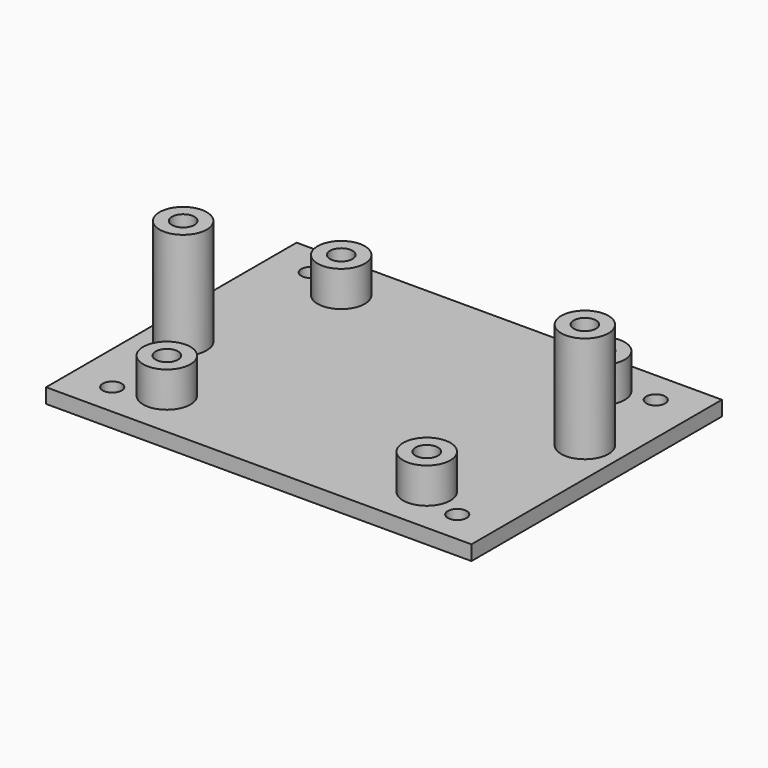
from build123d import *

# Parameters (mm, degrees)
SKETCH_W      = 72
SKETCH_H      = 53
PAD_DEPTH     = 2.5
SKETCH001_R   = 4
PAD001_DEPTH  = 6
SKETCH002_R   = 1.9
HOLE_DEPTH    = 6
SKETCH003_R   = 1.6
HOLE001_DEPTH = 2.501
SKETCH004_R   = 4
PAD002_DEPTH  = 18
SKETCH005_R   = 1.9
HOLE002_DEPTH = 6


with BuildPart() as part:
    # Sketch → Pad (new body)
    with BuildSketch(Plane.XY):
        Rectangle(SKETCH_W, SKETCH_H)
    extrude(amount=PAD_DEPTH)

    # Sketch001 (on Face6 of Pad) → Pad001 (join)
    with BuildSketch(Plane.XY.offset(2.5)):
        with Locations((-22, 18.45)):
            Circle(SKETCH001_R)
        with Locations((22, 18.45)):
            Circle(SKETCH001_R)
        with Locations((-22, -18.45)):
            Circle(SKETCH001_R)
        with Locations((22, -18.45)):
            Circle(SKETCH001_R)
    extrude(amount=PAD001_DEPTH)

    # Sketch002 (on Face14 of Pad001) → Hole (cut)
    with BuildSketch(Plane.XY.offset(8.5)):
        with Locations((-22, 18.45)):
            Circle(SKETCH002_R)
        with Locations((22, 18.45)):
            Circle(SKETCH002_R)
        with Locations((-22, -18.45)):
            Circle(SKETCH002_R)
        with Locations((22, -18.45)):
            Circle(SKETCH002_R)
    extrude(amount=-HOLE_DEPTH, mode=Mode.SUBTRACT)

    # Sketch003 (on Face5 of Hole) → Hole001 (cut, through all)
    with BuildSketch(Plane.XY.offset(2.5)):
        with Locations((-29.2, 21)):
            Circle(SKETCH003_R)
        with Locations((-29.2, -21)):
            Circle(SKETCH003_R)
        with Locations((29.2, 21)):
            Circle(SKETCH003_R)
        with Locations((29.2, -21)):
            Circle(SKETCH003_R)
    extrude(amount=-HOLE001_DEPTH, mode=Mode.SUBTRACT)

    # Sketch004 (on Face5 of Hole001) → Pad002 (join)
    with BuildSketch(Plane.XY.offset(2.5)):
        with Locations((30, 5)):
            Circle(SKETCH004_R)
        with Locations((-30, -5)):
            Circle(SKETCH004_R)
    extrude(amount=PAD002_DEPTH)

    # Sketch005 (on Face19 of Pad002) → Hole002 (cut)
    with BuildSketch(Plane.XY.offset(20.5)):
        with Locations((-30, -5)):
            Circle(SKETCH005_R)
        with Locations((30, 5)):
            Circle(SKETCH005_R)
    extrude(amount=-HOLE002_DEPTH, mode=Mode.SUBTRACT)


solid = part.part
